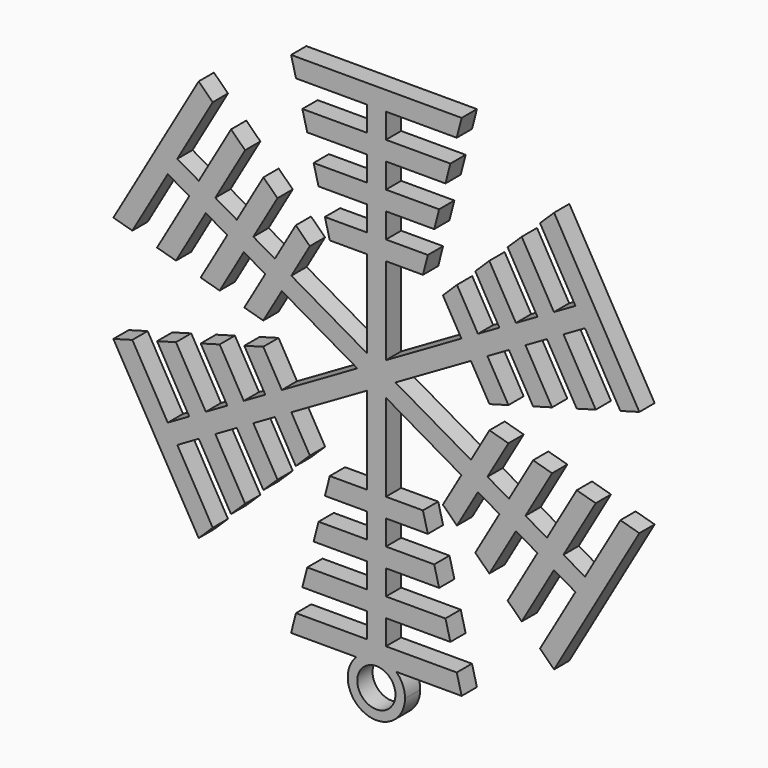
from build123d import *

# Parameters (mm, degrees)
F0_W     = 15
F0_H     = 3
F1_DEPTH = 3
F3_DEPTH = 25
F6_COUNT = 6
F8_R     = 3
F9_DEPTH = 3


with BuildPart() as f1:
    # F0 (on Front) → F1 (new body)
    with BuildSketch(Plane.XZ):
        with Locations((9, 38.5)):
            Rectangle(F0_W, F0_H)
        with Locations((9, 31.6)):
            Rectangle(F0_W, F0_H)
        with Locations((9, 24.7)):
            Rectangle(F0_W, F0_H)
        with Locations((9, 17.8)):
            Rectangle(F0_W, F0_H)
        Polygon((0, 40), (0, 0), (1.5, 0), (1.5, 16.3), (1.5, 19.3), (1.5, 23.2), (1.5, 26.2), (1.5, 30.1), (1.5, 33.1), (1.5, 37), (1.5, 40), align=None)
    extrude(amount=F1_DEPTH)

    # F2 (on face) → F3 (cut)
    with BuildSketch(Plane.XZ.offset(3)):
        Polygon((13.405226, 40), (7.321541, 16.3), (20.32141, 16.3), (16.5, 40), align=None)
    extrude(amount=-F3_DEPTH, mode=Mode.SUBTRACT)

    # F4: F1 across plane


with BuildPart() as f1_1:
    add(f1.part)
    add(f1.part.mirror(Plane.YZ))


with BuildPart() as f6_1:
    # F6: instance of F1
    add(f1_1.part.rotate(Axis((0, 13.050985, 0), (0, 1, 0)), 1 * 360 / F6_COUNT))


with BuildPart() as f6_2:
    # F6: instance of F1
    add(f1_1.part.rotate(Axis((0, 13.050985, 0), (0, 1, 0)), 2 * 360 / F6_COUNT))


with BuildPart() as f6_3:
    # F6: instance of F1
    add(f1_1.part.rotate(Axis((0, 13.050985, 0), (0, 1, 0)), 3 * 360 / F6_COUNT))


with BuildPart() as f6_4:
    # F6: instance of F1
    add(f1_1.part.rotate(Axis((0, 13.050985, 0), (0, 1, 0)), 4 * 360 / F6_COUNT))


with BuildPart() as f6_5:
    # F6: instance of F1
    add(f1_1.part.rotate(Axis((0, 13.050985, 0), (0, 1, 0)), 5 * 360 / F6_COUNT))

    # F7: union F1, F6_2, F6_3, F6_4, F6_1
    add(f1_1.part)
    add(f6_2.part)
    add(f6_3.part)
    add(f6_4.part)
    add(f6_1.part)

    # F8 (on face) → F9 (join, through all)
    with BuildSketch(Plane.XZ.offset(3)):
        with BuildLine():
            ThreePointArc((-3.140397, -40), (-1.74903, -47.369217), (4.5, -43.223027))
            ThreePointArc((4.5, -43.223027), (4.14619, -41.473997), (3.140397, -40))
            Line((3.140397, -40), (-3.140397, -40))
        make_face()
        with Locations((0, -43.223027)):
            Circle(F8_R, mode=Mode.SUBTRACT)
    extrude(amount=-F9_DEPTH)


solid = f6_5.part
